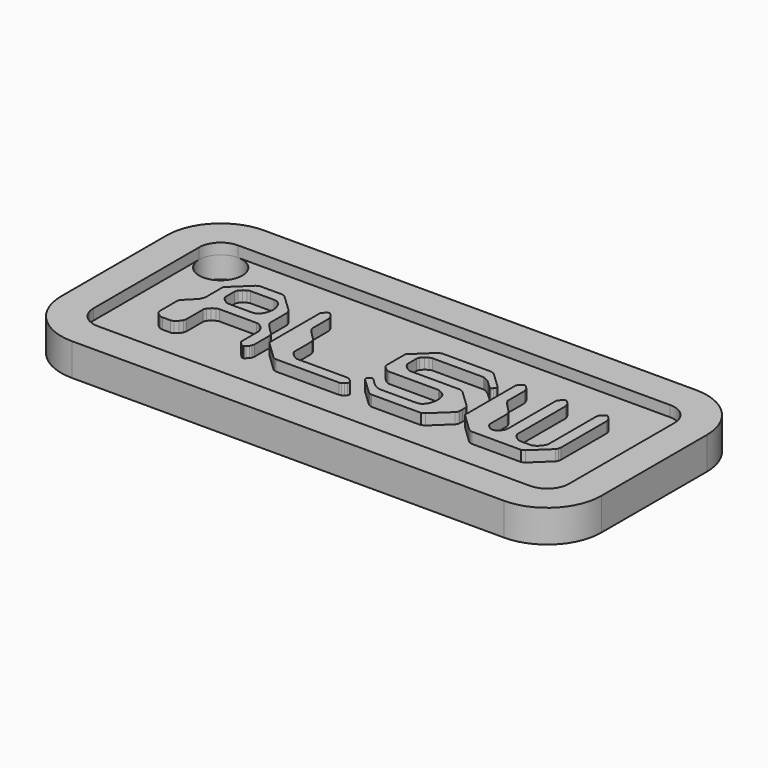
from build123d import *

# Parameters (mm, degrees)
EXTRUDE_DEPTH    = 1
EXTRUDE004_DEPTH = 2
SKETCH002_R      = 2
POCKET_DEPTH     = 5
EXTRUDE001_DEPTH = 1


with BuildPart() as extrude_body:
    # Scale → Extrude (new body)
    with BuildSketch(Plane(origin=(24.999965, 11.104911, 0), x_dir=(0, 1, 0), z_dir=(0, 0, 1))):
        with BuildLine():
            add(Edge.make_bspline(
                [(-2.359606, -9.379043), (3.473387, -9.379043)],
                knots=[0, 0, 82.19221, 82.19221], degree=1))
            add(Edge.make_bspline(
                [(3.473387, -9.379043), (3.488688, -9.379043), (3.519308, -9.391117), (3.565245, -9.415266)],
                knots=[0, 0, 0, 0, 1, 1, 1, 1], degree=3))
            add(Edge.make_bspline(
                [(3.565245, -9.415266), (3.618821, -9.439413), (3.653267, -9.459537), (3.668586, -9.475636)],
                knots=[0, 0, 0, 0, 1, 1, 1, 1], degree=3))
            add(Edge.make_bspline(
                [(3.668586, -9.475636), (3.706851, -9.515883), (3.764262, -9.572228), (3.84082, -9.644674)],
                knots=[0, 0, 0, 0, 1, 1, 1, 1], degree=3))
            add(Edge.make_bspline(
                [(3.84082, -9.644674), (3.917359, -9.725167), (3.955633, -9.769439), (3.955642, -9.777489)],
                knots=[0, 0, 0, 0, 1, 1, 1, 1], degree=3))
            add(Edge.make_bspline(
                [(3.955642, -9.777489), (3.955642, -9.934453)],
                knots=[0, 0, 2.10334, 2.10334], degree=1))
            add(Edge.make_bspline(
                [(3.955642, -9.934453), (3.955633, -9.950551), (3.917359, -9.994823), (3.84082, -10.067268)],
                knots=[0, 0, 0, 0, 1, 1, 1, 1], degree=3))
            add(Edge.make_bspline(
                [(3.84082, -10.067268), (3.764262, -10.139712), (3.706851, -10.196058), (3.668586, -10.236306)],
                knots=[0, 0, 0, 0, 1, 1, 1, 1], degree=3))
            add(Edge.make_bspline(
                [(3.668586, -10.236306), (3.653267, -10.252403), (3.622648, -10.268502), (3.576727, -10.284602)],
                knots=[0, 0, 0, 0, 1, 1, 1, 1], degree=3))
            add(Edge.make_bspline(
                [(3.576727, -10.284602), (3.538445, -10.308749), (3.496343, -10.328873), (3.450423, -10.344973)],
                knots=[0, 0, 0, 0, 1, 1, 1, 1], degree=3))
            add(Edge.make_bspline(
                [(3.450423, -10.344973), (3.404485, -10.36912), (3.362383, -10.385218), (3.324118, -10.39327)],
                knots=[0, 0, 0, 0, 1, 1, 1, 1], degree=3))
            add(Edge.make_bspline(
                [(3.324118, -10.39327), (3.285835, -10.409367), (3.255216, -10.417416), (3.232259, -10.417418)],
                knots=[0, 0, 0, 0, 1, 1, 1, 1], degree=3))
            add(Edge.make_bspline(
                [(3.232259, -10.417418), (1.303238, -10.417418)],
                knots=[0, 0, 27.181671, 27.181671], degree=1))
            add(Edge.make_bspline(
                [(1.303238, -10.417418), (1.287922, -10.417416), (1.26113, -10.425465), (1.222862, -10.441566)],
                knots=[0, 0, 0, 0, 1, 1, 1, 1], degree=3))
            add(Edge.make_bspline(
                [(1.222862, -10.441566), (1.192236, -10.465712), (1.153963, -10.489861), (1.108039, -10.51401)],
                knots=[0, 0, 0, 0, 1, 1, 1, 1], degree=3))
            add(Edge.make_bspline(
                [(1.108039, -10.51401), (1.069759, -10.538157), (1.031485, -10.562305), (0.993217, -10.586455)],
                knots=[0, 0, 0, 0, 1, 1, 1, 1], degree=3))
            add(Edge.make_bspline(
                [(0.993217, -10.586455), (0.954937, -10.610602), (0.928145, -10.630726), (0.912841, -10.646825)],
                knots=[0, 0, 0, 0, 1, 1, 1, 1], degree=3))
            add(Edge.make_bspline(
                [(0.912841, -10.646825), (0.882215, -10.679022), (0.824804, -10.735367), (0.740607, -10.815863)],
                knots=[0, 0, 0, 0, 1, 1, 1, 1], degree=3))
            add(Edge.make_bspline(
                [(0.740607, -10.815863), (0.656398, -10.896356), (0.568367, -10.980875), (0.476515, -11.06942)],
                knots=[0, 0, 0, 0, 1, 1, 1, 1], degree=3))
            add(Edge.make_bspline(
                [(0.476515, -11.06942), (0.384651, -11.157962), (0.29662, -11.24248), (0.212423, -11.322976)],
                knots=[0, 0, 0, 0, 1, 1, 1, 1], degree=3))
            add(Edge.make_bspline(
                [(0.212423, -11.322976), (0.135869, -11.411517), (0.082285, -11.471888), (0.051671, -11.504088)],
                knots=[0, 0, 0, 0, 1, 1, 1, 1], degree=3))
            add(Edge.make_bspline(
                [(0.051671, -11.504088), (0.005736, -11.536283), (-0.066984, -11.572506), (-0.166492, -11.612755)],
                knots=[0, 0, 0, 0, 1, 1, 1, 1], degree=3))
            add(Edge.make_bspline(
                [(-0.166492, -11.612755), (-0.258355, -11.661049), (-0.331077, -11.685198), (-0.384656, -11.6852)],
                knots=[0, 0, 0, 0, 1, 1, 1, 1], degree=3))
            add(Edge.make_bspline(
                [(-0.384656, -11.6852), (-2.313678, -11.6852)],
                knots=[0, 0, 27.18168, 27.18168], degree=1))
            add(Edge.make_bspline(
                [(-2.313678, -11.6852), (-2.382574, -11.685198), (-2.455294, -11.709346), (-2.53184, -11.757645)],
                knots=[0, 0, 0, 0, 1, 1, 1, 1], degree=3))
            add(Edge.make_bspline(
                [(-2.53184, -11.757645), (-2.608391, -11.805938), (-2.677285, -11.866309), (-2.738522, -11.938756)],
                knots=[0, 0, 0, 0, 1, 1, 1, 1], degree=3))
            add(Edge.make_bspline(
                [(-2.738522, -11.938756), (-2.799762, -12.011198), (-2.849519, -12.087667), (-2.887791, -12.168165)],
                knots=[0, 0, 0, 0, 1, 1, 1, 1], degree=3))
            add(Edge.make_bspline(
                [(-2.887791, -12.168165), (-2.926067, -12.248656), (-2.945204, -12.325125), (-2.945202, -12.397573)],
                knots=[0, 0, 0, 0, 1, 1, 1, 1], degree=3))
            add(Edge.make_bspline(
                [(-2.945202, -12.397573), (-2.945204, -12.494163), (-2.918412, -12.586731), (-2.864826, -12.675278)],
                knots=[0, 0, 0, 0, 1, 1, 1, 1], degree=3))
            add(Edge.make_bspline(
                [(-2.864826, -12.675278), (-2.80359, -12.771867), (-2.730868, -12.856386), (-2.646663, -12.928834)],
                knots=[0, 0, 0, 0, 1, 1, 1, 1], degree=3))
            add(Edge.make_bspline(
                [(-2.646663, -12.928834), (-2.562462, -13.001275), (-2.470604, -13.057621), (-2.371088, -13.097872)],
                knots=[0, 0, 0, 0, 1, 1, 1, 1], degree=3))
            add(Edge.make_bspline(
                [(-2.371088, -13.097872), (-2.263923, -13.138115), (-2.16441, -13.158238), (-2.07255, -13.158243)],
                knots=[0, 0, 0, 0, 1, 1, 1, 1], degree=3))
            add(Edge.make_bspline(
                [(-2.07255, -13.158243), (3.473387, -13.158243)],
                knots=[0, 0, 78.14732, 78.14732], degree=1))
            add(Edge.make_bspline(
                [(3.473387, -13.158243), (3.481033, -13.158238), (3.507825, -13.174337), (3.553763, -13.206539)],
                knots=[0, 0, 0, 0, 1, 1, 1, 1], degree=3))
            add(Edge.make_bspline(
                [(3.553763, -13.206539), (3.607338, -13.238733), (3.645612, -13.262881), (3.668586, -13.278983)],
                knots=[0, 0, 0, 0, 1, 1, 1, 1], degree=3))
            add(Edge.make_bspline(
                [(3.668586, -13.278983), (3.691542, -13.303128), (3.718333, -13.331301), (3.748961, -13.363502)],
                knots=[0, 0, 0, 0, 1, 1, 1, 1], degree=3))
            add(Edge.make_bspline(
                [(3.748961, -13.363502), (3.779572, -13.395696), (3.810192, -13.427894), (3.84082, -13.460096)],
                knots=[0, 0, 0, 0, 1, 1, 1, 1], degree=3))
            add(Edge.make_bspline(
                [(3.84082, -13.460096), (3.87143, -13.492289), (3.898222, -13.520462), (3.921196, -13.544614)],
                knots=[0, 0, 0, 0, 1, 1, 1, 1], degree=3))
            add(Edge.make_bspline(
                [(3.921196, -13.544614), (3.944151, -13.568758), (3.955633, -13.580833), (3.955642, -13.580837)],
                knots=[0, 0, 0, 0, 1, 1, 1, 1], degree=3))
            add(Edge.make_bspline(
                [(3.955642, -13.580837), (3.955642, -13.7378)],
                knots=[0, 0, 2.10334, 2.10334], degree=1))
            add(Edge.make_bspline(
                [(3.955642, -13.7378), (3.955633, -13.753894), (3.917359, -13.798167), (3.84082, -13.870615)],
                knots=[0, 0, 0, 0, 1, 1, 1, 1], degree=3))
            add(Edge.make_bspline(
                [(3.84082, -13.870615), (3.764262, -13.943055), (3.706851, -13.999402), (3.668586, -14.039653)],
                knots=[0, 0, 0, 0, 1, 1, 1, 1], degree=3))
            add(Edge.make_bspline(
                [(3.668586, -14.039653), (3.653267, -14.055747), (3.622648, -14.071846), (3.576727, -14.08795)],
                knots=[0, 0, 0, 0, 1, 1, 1, 1], degree=3))
            add(Edge.make_bspline(
                [(3.576727, -14.08795), (3.538445, -14.112093), (3.496343, -14.132217), (3.450423, -14.14832)],
                knots=[0, 0, 0, 0, 1, 1, 1, 1], degree=3))
            add(Edge.make_bspline(
                [(3.450423, -14.14832), (3.404485, -14.172464), (3.362383, -14.188562), (3.324118, -14.196617)],
                knots=[0, 0, 0, 0, 1, 1, 1, 1], degree=3))
            add(Edge.make_bspline(
                [(3.324118, -14.196617), (3.285835, -14.21271), (3.255216, -14.22076), (3.232259, -14.220765)],
                knots=[0, 0, 0, 0, 1, 1, 1, 1], degree=3))
            add(Edge.make_bspline(
                [(3.232259, -14.220765), (-2.313678, -14.220765)],
                knots=[0, 0, 78.147321, 78.147321], degree=1))
            add(Edge.make_bspline(
                [(-2.313678, -14.220765), (-2.390228, -14.22076), (-2.474431, -14.252957), (-2.566287, -14.317358)],
                knots=[0, 0, 0, 0, 1, 1, 1, 1], degree=3))
            add(Edge.make_bspline(
                [(-2.566287, -14.317358), (-2.658148, -14.381748), (-2.742351, -14.458218), (-2.818897, -14.546766)],
                knots=[0, 0, 0, 0, 1, 1, 1, 1], degree=3))
            add(Edge.make_bspline(
                [(-2.818897, -14.546766), (-2.895447, -14.643354), (-2.960513, -14.739947), (-3.014096, -14.836545)],
                knots=[0, 0, 0, 0, 1, 1, 1, 1], degree=3))
            add(Edge.make_bspline(
                [(-3.014096, -14.836545), (-3.060027, -14.941182), (-3.082991, -15.03375), (-3.08299, -15.11425)],
                knots=[0, 0, 0, 0, 1, 1, 1, 1], degree=3))
            add(Edge.make_bspline(
                [(-3.08299, -15.11425), (-3.08299, -16.019809)],
                knots=[0, 0, 12.13467, 12.13467], degree=1))
            add(Edge.make_bspline(
                [(-3.08299, -16.019809), (-3.082991, -16.132493), (-3.048545, -16.245185), (-2.979649, -16.357884)],
                knots=[0, 0, 0, 0, 1, 1, 1, 1], degree=3))
            add(Edge.make_bspline(
                [(-2.979649, -16.357884), (-2.910757, -16.470569), (-2.826554, -16.571186), (-2.727039, -16.659738)],
                knots=[0, 0, 0, 0, 1, 1, 1, 1], degree=3))
            add(Edge.make_bspline(
                [(-2.727039, -16.659738), (-2.627528, -16.748273), (-2.52036, -16.820718), (-2.405535, -16.877072)],
                knots=[0, 0, 0, 0, 1, 1, 1, 1], degree=3))
            add(Edge.make_bspline(
                [(-2.405535, -16.877072), (-2.283061, -16.933409), (-2.172065, -16.961582), (-2.07255, -16.96159)],
                knots=[0, 0, 0, 0, 1, 1, 1, 1], degree=3))
            add(Edge.make_bspline(
                [(-2.07255, -16.96159), (3.473387, -16.96159)],
                knots=[0, 0, 78.14732, 78.14732], degree=1))
            add(Edge.make_bspline(
                [(3.473387, -16.96159), (3.481033, -16.961582), (3.507825, -16.977681), (3.553763, -17.009887)],
                knots=[0, 0, 0, 0, 1, 1, 1, 1], degree=3))
            add(Edge.make_bspline(
                [(3.553763, -17.009887), (3.607338, -17.042076), (3.645612, -17.066225), (3.668586, -17.082331)],
                knots=[0, 0, 0, 0, 1, 1, 1, 1], degree=3))
            add(Edge.make_bspline(
                [(3.668586, -17.082331), (3.691542, -17.106472), (3.718333, -17.134644), (3.748961, -17.16685)],
                knots=[0, 0, 0, 0, 1, 1, 1, 1], degree=3))
            add(Edge.make_bspline(
                [(3.748961, -17.16685), (3.779572, -17.19904), (3.810192, -17.231238), (3.84082, -17.263443)],
                knots=[0, 0, 0, 0, 1, 1, 1, 1], degree=3))
            add(Edge.make_bspline(
                [(3.84082, -17.263443), (3.87143, -17.295632), (3.898222, -17.323806), (3.921196, -17.347962)],
                knots=[0, 0, 0, 0, 1, 1, 1, 1], degree=3))
            add(Edge.make_bspline(
                [(3.921196, -17.347962), (3.944151, -17.372102), (3.955633, -17.388201), (3.955642, -17.396258)],
                knots=[0, 0, 0, 0, 1, 1, 1, 1], degree=3))
            add(Edge.make_bspline(
                [(3.955642, -17.396258), (3.955642, -17.541148)],
                knots=[0, 0, 1.94155, 1.94155], degree=1))
            add(Edge.make_bspline(
                [(3.955642, -17.541148), (3.955633, -17.557238), (3.917359, -17.60151), (3.84082, -17.673963)],
                knots=[0, 0, 0, 0, 1, 1, 1, 1], degree=3))
            add(Edge.make_bspline(
                [(3.84082, -17.673963), (3.764262, -17.746399), (3.706851, -17.802745), (3.668586, -17.843001)],
                knots=[0, 0, 0, 0, 1, 1, 1, 1], degree=3))
            add(Edge.make_bspline(
                [(3.668586, -17.843001), (3.614993, -17.883239), (3.542272, -17.919462), (3.450423, -17.951668)],
                knots=[0, 0, 0, 0, 1, 1, 1, 1], degree=3))
            add(Edge.make_bspline(
                [(3.450423, -17.951668), (3.366211, -17.983857), (3.29349, -17.999956), (3.232259, -17.999965)],
                knots=[0, 0, 0, 0, 1, 1, 1, 1], degree=3))
            add(Edge.make_bspline(
                [(3.232259, -17.999965), (-2.02662, -17.999965)],
                knots=[0, 0, 74.102421, 74.102421], degree=1))
            add(Edge.make_bspline(
                [(-2.02662, -17.999965), (-2.072553, -17.999956), (-2.149101, -17.983857), (-2.256266, -17.951668)],
                knots=[0, 0, 0, 0, 1, 1, 1, 1], degree=3))
            add(Edge.make_bspline(
                [(-2.256266, -17.951668), (-2.355781, -17.919462), (-2.424675, -17.883239), (-2.462947, -17.843001)],
                knots=[0, 0, 0, 0, 1, 1, 1, 1], degree=3))
            add(Edge.make_bspline(
                [(-2.462947, -17.843001), (-3.955642, -16.273365)],
                knots=[0, 0, 29.745776, 29.745776], degree=1))
            add(Edge.make_bspline(
                [(-3.955642, -16.273365), (-4.104911, -15.971512)],
                knots=[0, 0, 4.559076, 4.559076], degree=1))
            add(Edge.make_bspline(
                [(-4.104911, -15.971512), (-4.104911, -11.407495)],
                knots=[0, 0, 61.15877, 61.15877], degree=1))
            add(Edge.make_bspline(
                [(-4.104911, -11.407495), (-4.104912, -11.375296), (-4.085775, -11.3109), (-4.0475, -11.214309)],
                knots=[0, 0, 0, 0, 1, 1, 1, 1], degree=3))
            add(Edge.make_bspline(
                [(-4.0475, -11.214309), (-4.001572, -11.117714), (-3.970953, -11.061368), (-3.955642, -11.045272)],
                knots=[0, 0, 0, 0, 1, 1, 1, 1], degree=3))
            add(Edge.make_bspline(
                [(-3.955642, -11.045272), (-2.359606, -9.379043)],
                knots=[0, 0, 31.690894, 31.690894], degree=1))
        make_face()
        with BuildLine():
            add(Edge.make_bspline(
                [(-2.417018, -0.232238), (-2.40171, -0.232238), (-2.382574, -0.232238), (-2.359606, -0.232238)],
                knots=[0, 0, 0, 0, 1, 1, 1, 1], degree=3))
            add(Edge.make_bspline(
                [(-2.359606, -0.232238), (-2.336644, -0.240287), (-2.321335, -0.244312), (-2.313678, -0.244313)],
                knots=[0, 0, 0, 0, 1, 1, 1, 1], degree=3))
            add(Edge.make_bspline(
                [(-2.313678, -0.244313), (-2.275405, -0.268461), (-2.225649, -0.312733), (-2.164408, -0.377128)],
                knots=[0, 0, 0, 0, 1, 1, 1, 1], degree=3))
            add(Edge.make_bspline(
                [(-2.164408, -0.377128), (-2.103172, -0.441522), (-2.072553, -0.481769), (-2.07255, -0.497869)],
                knots=[0, 0, 0, 0, 1, 1, 1, 1], degree=3))
            add(Edge.make_bspline(
                [(-2.07255, -0.497869), (-2.07255, -0.654832)],
                knots=[0, 0, 2.10334, 2.10334], degree=1))
            add(Edge.make_bspline(
                [(-2.07255, -0.654832), (-2.248614, -0.839968), (-2.428503, -1.025104), (-2.612216, -1.210243)],
                knots=[0, 0, 0, 0, 1, 1, 1, 1], degree=3))
            add(Edge.make_bspline(
                [(-2.612216, -1.210243), (-2.795934, -1.403426), (-2.937549, -1.624786), (-3.03706, -1.874319)],
                knots=[0, 0, 0, 0, 1, 1, 1, 1], degree=3))
            add(Edge.make_bspline(
                [(-3.03706, -1.874319), (-3.08299, -2.019209)],
                knots=[0, 0, 2.046576, 2.046576], degree=1))
            add(Edge.make_bspline(
                [(-3.08299, -2.019209), (-3.08299, -5.472406)],
                knots=[0, 0, 46.27356, 46.27356], degree=1))
            add(Edge.make_bspline(
                [(-3.08299, -5.472406), (-3.082991, -5.633389), (-3.040889, -5.770229), (-2.956684, -5.882927)],
                knots=[0, 0, 0, 0, 1, 1, 1, 1], degree=3))
            add(Edge.make_bspline(
                [(-2.956684, -5.882927), (-2.864828, -6.003662), (-2.753833, -6.100254), (-2.623699, -6.172705)],
                knots=[0, 0, 0, 0, 1, 1, 1, 1], degree=3))
            add(Edge.make_bspline(
                [(-2.623699, -6.172705), (-2.493569, -6.245144), (-2.355781, -6.297465), (-2.210336, -6.329669)],
                knots=[0, 0, 0, 0, 1, 1, 1, 1], degree=3))
            add(Edge.make_bspline(
                [(-2.210336, -6.329669), (-2.064897, -6.36991), (-1.930938, -6.390033), (-1.808457, -6.390039)],
                knots=[0, 0, 0, 0, 1, 1, 1, 1], degree=3))
            add(Edge.make_bspline(
                [(-1.808457, -6.390039), (-1.58647, -6.390033), (-1.372135, -6.353811), (-1.16545, -6.281372)],
                knots=[0, 0, 0, 0, 1, 1, 1, 1], degree=3))
            add(Edge.make_bspline(
                [(-1.16545, -6.281372), (-0.958773, -6.208921), (-0.794194, -6.060007), (-0.671712, -5.83463)],
                knots=[0, 0, 0, 0, 1, 1, 1, 1], degree=3))
            add(Edge.make_bspline(
                [(-0.671712, -5.83463), (-0.648752, -5.786328), (-0.618133, -5.713883), (-0.579855, -5.617296)],
                knots=[0, 0, 0, 0, 1, 1, 1, 1], degree=3))
            add(Edge.make_bspline(
                [(-0.579855, -5.617296), (-0.53393, -5.528746), (-0.510966, -5.48045), (-0.510961, -5.472406)],
                knots=[0, 0, 0, 0, 1, 1, 1, 1], degree=3))
            add(Edge.make_bspline(
                [(-0.510961, -5.472406), (-0.510961, -0.860093)],
                knots=[0, 0, 61.80595, 61.80595], degree=1))
            add(Edge.make_bspline(
                [(-0.510961, -0.860093), (-0.510966, -0.811795), (-0.488, -0.743375), (-0.442067, -0.654832)],
                knots=[0, 0, 0, 0, 1, 1, 1, 1], degree=3))
            add(Edge.make_bspline(
                [(-0.442067, -0.654832), (-0.388488, -0.566288), (-0.327249, -0.481769), (-0.258351, -0.401276)],
                knots=[0, 0, 0, 0, 1, 1, 1, 1], degree=3))
            add(Edge.make_bspline(
                [(-0.258351, -0.401276), (-0.189462, -0.320782), (-0.120569, -0.248337), (-0.05167, -0.183942)],
                knots=[0, 0, 0, 0, 1, 1, 1, 1], degree=3))
            add(Edge.make_bspline(
                [(-0.05167, -0.183942), (0.024873, -0.127596), (0.089939, -0.099423), (0.143529, -0.099423)],
                knots=[0, 0, 0, 0, 1, 1, 1, 1], degree=3))
            add(Edge.make_bspline(
                [(0.143529, -0.099423), (2.359607, -0.099423)],
                knots=[0, 0, 31.226569, 31.226569], degree=1))
            add(Edge.make_bspline(
                [(2.359607, -0.099423), (3.955642, -1.765652)],
                knots=[0, 0, 31.690901, 31.690901], degree=1))
            add(Edge.make_bspline(
                [(3.955642, -1.765652), (4.104912, -2.079579)],
                knots=[0, 0, 4.703213, 4.703213], degree=1))
            add(Edge.make_bspline(
                [(4.104912, -2.079579), (4.104912, -6.643596)],
                knots=[0, 0, 61.15877, 61.15877], degree=1))
            add(Edge.make_bspline(
                [(4.104912, -6.643596), (4.104903, -6.675787), (4.081938, -6.740182), (4.036018, -6.836782)],
                knots=[0, 0, 0, 0, 1, 1, 1, 1], degree=3))
            add(Edge.make_bspline(
                [(4.036018, -6.836782), (3.997735, -6.933367), (3.970943, -6.985689), (3.955642, -6.993746)],
                knots=[0, 0, 0, 0, 1, 1, 1, 1], degree=3))
            add(Edge.make_bspline(
                [(3.955642, -6.993746), (2.508876, -8.515084)],
                knots=[0, 0, 28.830515, 28.830515], degree=1))
            add(Edge.make_bspline(
                [(2.508876, -8.515084), (2.508869, -8.523125), (2.497387, -8.52715), (2.474429, -8.527159)],
                knots=[0, 0, 0, 0, 1, 1, 1, 1], degree=3))
            add(Edge.make_bspline(
                [(2.474429, -8.527159), (2.451458, -8.5352), (2.43232, -8.539224), (2.417018, -8.539233)],
                knots=[0, 0, 0, 0, 1, 1, 1, 1], degree=3))
            add(Edge.make_bspline(
                [(2.417018, -8.539233), (2.401701, -8.539224), (2.382564, -8.535196), (2.359607, -8.527159)],
                knots=[0, 0, 0, 0, 1, 1, 1, 1], degree=3))
            add(Edge.make_bspline(
                [(2.359607, -8.527159), (2.336635, -8.52715), (2.321325, -8.523129), (2.313678, -8.515084)],
                knots=[0, 0, 0, 0, 1, 1, 1, 1], degree=3))
            add(Edge.make_bspline(
                [(2.313678, -8.515084), (2.275396, -8.498977), (2.22564, -8.454705), (2.164408, -8.382269)],
                knots=[0, 0, 0, 0, 1, 1, 1, 1], degree=3))
            add(Edge.make_bspline(
                [(2.164408, -8.382269), (2.103162, -8.317866), (2.072543, -8.277618), (2.07255, -8.261528)],
                knots=[0, 0, 0, 0, 1, 1, 1, 1], degree=3))
            add(Edge.make_bspline(
                [(2.07255, -8.261528), (2.07255, -8.116639)],
                knots=[0, 0, 1.94155, 1.94155], degree=1))
            add(Edge.make_bspline(
                [(2.07255, -8.116639), (2.248604, -7.931494), (2.428493, -7.742333), (2.612217, -7.549155)],
                knots=[0, 0, 0, 0, 1, 1, 1, 1], degree=3))
            add(Edge.make_bspline(
                [(2.612217, -7.549155), (2.795925, -7.364011), (2.93754, -7.146677), (3.037061, -6.897152)],
                knots=[0, 0, 0, 0, 1, 1, 1, 1], degree=3))
            add(Edge.make_bspline(
                [(3.037061, -6.897152), (3.044708, -6.881047), (3.052362, -6.852874), (3.060025, -6.812633)],
                knots=[0, 0, 0, 0, 1, 1, 1, 1], degree=3))
            add(Edge.make_bspline(
                [(3.060025, -6.812633), (3.075327, -6.77238), (3.082982, -6.748231), (3.08299, -6.740189)],
                knots=[0, 0, 0, 0, 1, 1, 1, 1], degree=3))
            add(Edge.make_bspline(
                [(3.08299, -6.740189), (3.08299, -2.019209)],
                knots=[0, 0, 63.26211, 63.26211], degree=1))
            add(Edge.make_bspline(
                [(3.08299, -2.019209), (3.082982, -1.938712), (3.05619, -1.850169), (3.002614, -1.753578)],
                knots=[0, 0, 0, 0, 1, 1, 1, 1], degree=3))
            add(Edge.make_bspline(
                [(3.002614, -1.753578), (2.956677, -1.656983), (2.895438, -1.564415), (2.818898, -1.475873)],
                knots=[0, 0, 0, 0, 1, 1, 1, 1], degree=3))
            add(Edge.make_bspline(
                [(2.818898, -1.475873), (2.749996, -1.387328), (2.669621, -1.310858), (2.57777, -1.246464)],
                knots=[0, 0, 0, 0, 1, 1, 1, 1], degree=3))
            add(Edge.make_bspline(
                [(2.57777, -1.246464), (2.485904, -1.190118), (2.397874, -1.161944), (2.313678, -1.161946)],
                knots=[0, 0, 0, 0, 1, 1, 1, 1], degree=3))
            add(Edge.make_bspline(
                [(2.313678, -1.161946), (1.303238, -1.161946)],
                knots=[0, 0, 14.238016, 14.238016], degree=1))
            add(Edge.make_bspline(
                [(1.303238, -1.161946), (1.234338, -1.161944), (1.153963, -1.194142), (1.062111, -1.258539)],
                knots=[0, 0, 0, 0, 1, 1, 1, 1], degree=3))
            add(Edge.make_bspline(
                [(1.062111, -1.258539), (0.970246, -1.322933), (0.882215, -1.399402), (0.798018, -1.487947)],
                knots=[0, 0, 0, 0, 1, 1, 1, 1], degree=3))
            add(Edge.make_bspline(
                [(0.798018, -1.487947), (0.721464, -1.576488), (0.65257, -1.669057), (0.591337, -1.765652)],
                knots=[0, 0, 0, 0, 1, 1, 1, 1], degree=3))
            add(Edge.make_bspline(
                [(0.591337, -1.765652), (0.537748, -1.870292), (0.510956, -1.954811), (0.510961, -2.019209)],
                knots=[0, 0, 0, 0, 1, 1, 1, 1], degree=3))
            add(Edge.make_bspline(
                [(0.510961, -2.019209), (0.510961, -6.643596)],
                knots=[0, 0, 61.96774, 61.96774], degree=1))
            add(Edge.make_bspline(
                [(0.510961, -6.643596), (0.510956, -6.667737), (0.487992, -6.724083), (0.442068, -6.812633)],
                knots=[0, 0, 0, 0, 1, 1, 1, 1], degree=3))
            add(Edge.make_bspline(
                [(0.442068, -6.812633), (0.396133, -6.909219), (0.361686, -6.96959), (0.338727, -6.993746)],
                knots=[0, 0, 0, 0, 1, 1, 1, 1], degree=3))
            add(Edge.make_bspline(
                [(0.338727, -6.993746), (-1.153968, -8.563381)],
                knots=[0, 0, 29.745776, 29.745776], degree=1))
            add(Edge.make_bspline(
                [(-1.153968, -8.563381), (-1.238175, -8.651916), (-1.345343, -8.700212), (-1.475471, -8.708271)],
                knots=[0, 0, 0, 0, 1, 1, 1, 1], degree=3))
            add(Edge.make_bspline(
                [(-1.475471, -8.708271), (-1.597952, -8.716311), (-1.708947, -8.720336), (-1.808457, -8.720345)],
                knots=[0, 0, 0, 0, 1, 1, 1, 1], degree=3))
            add(Edge.make_bspline(
                [(-1.808457, -8.720345), (-1.907974, -8.720336), (-2.022796, -8.716315), (-2.152926, -8.708271)],
                knots=[0, 0, 0, 0, 1, 1, 1, 1], degree=3))
            add(Edge.make_bspline(
                [(-2.152926, -8.708271), (-2.275405, -8.700212), (-2.378746, -8.651916), (-2.462947, -8.563381)],
                knots=[0, 0, 0, 0, 1, 1, 1, 1], degree=3))
            add(Edge.make_bspline(
                [(-2.462947, -8.563381), (-3.955642, -6.993746)],
                knots=[0, 0, 29.745776, 29.745776], degree=1))
            add(Edge.make_bspline(
                [(-3.955642, -6.993746), (-4.104911, -6.691893)],
                knots=[0, 0, 4.559076, 4.559076], degree=1))
            add(Edge.make_bspline(
                [(-4.104911, -6.691893), (-4.104911, -2.127876)],
                knots=[0, 0, 61.15877, 61.15877], degree=1))
            add(Edge.make_bspline(
                [(-4.104911, -2.127876), (-4.104912, -2.095675), (-4.085775, -2.03128), (-4.0475, -1.93469)],
                knots=[0, 0, 0, 0, 1, 1, 1, 1], degree=3))
            add(Edge.make_bspline(
                [(-4.0475, -1.93469), (-4.001572, -1.838094), (-3.970953, -1.781749), (-3.955642, -1.765652)],
                knots=[0, 0, 0, 0, 1, 1, 1, 1], degree=3))
            add(Edge.make_bspline(
                [(-3.955642, -1.765652), (-2.508876, -0.244313)],
                knots=[0, 0, 28.830525, 28.830525], degree=1))
            add(Edge.make_bspline(
                [(-2.508876, -0.244313), (-2.508878, -0.244312), (-2.497396, -0.24029), (-2.474429, -0.232238)],
                knots=[0, 0, 0, 0, 1, 1, 1, 1], degree=3))
            add(Edge.make_bspline(
                [(-2.474429, -0.232238), (-2.451467, -0.232238), (-2.43233, -0.232238), (-2.417018, -0.232238)],
                knots=[0, 0, 0, 0, 1, 1, 1, 1], degree=3))
        make_face()
        with BuildLine():
            add(Edge.make_bspline(
                [(-2.359606, 8.732135), (3.473387, 8.732135)],
                knots=[0, 0, 82.19221, 82.19221], degree=1))
            add(Edge.make_bspline(
                [(3.473387, 8.732135), (3.488688, 8.732135), (3.519308, 8.720061), (3.565245, 8.695913)],
                knots=[0, 0, 0, 0, 1, 1, 1, 1], degree=3))
            add(Edge.make_bspline(
                [(3.565245, 8.695913), (3.611166, 8.671765), (3.645612, 8.651641), (3.668586, 8.635542)],
                knots=[0, 0, 0, 0, 1, 1, 1, 1], degree=3))
            add(Edge.make_bspline(
                [(3.668586, 8.635542), (3.706851, 8.595296), (3.764262, 8.53895), (3.84082, 8.466504)],
                knots=[0, 0, 0, 0, 1, 1, 1, 1], degree=3))
            add(Edge.make_bspline(
                [(3.84082, 8.466504), (3.917359, 8.386011), (3.955633, 8.341739), (3.955642, 8.333689)],
                knots=[0, 0, 0, 0, 1, 1, 1, 1], degree=3))
            add(Edge.make_bspline(
                [(3.955642, 8.333689), (3.955642, 8.176725)],
                knots=[0, 0, 2.10335, 2.10335], degree=1))
            add(Edge.make_bspline(
                [(3.955642, 8.176725), (3.955633, 8.160628), (3.917359, 8.116356), (3.84082, 8.04391)],
                knots=[0, 0, 0, 0, 1, 1, 1, 1], degree=3))
            add(Edge.make_bspline(
                [(3.84082, 8.04391), (3.764262, 7.971466), (3.706851, 7.91512), (3.668586, 7.874872)],
                knots=[0, 0, 0, 0, 1, 1, 1, 1], degree=3))
            add(Edge.make_bspline(
                [(3.668586, 7.874872), (3.630303, 7.842676), (3.557582, 7.806453), (3.450423, 7.766205)],
                knots=[0, 0, 0, 0, 1, 1, 1, 1], degree=3))
            add(Edge.make_bspline(
                [(3.450423, 7.766205), (3.343246, 7.71791), (3.270525, 7.693762), (3.232259, 7.69376)],
                knots=[0, 0, 0, 0, 1, 1, 1, 1], degree=3))
            add(Edge.make_bspline(
                [(3.232259, 7.69376), (1.303238, 7.69376)],
                knots=[0, 0, 27.181671, 27.181671], degree=1))
            add(Edge.make_bspline(
                [(1.303238, 7.69376), (1.287922, 7.693762), (1.26113, 7.685713), (1.222862, 7.669612)],
                knots=[0, 0, 0, 0, 1, 1, 1, 1], degree=3))
            add(Edge.make_bspline(
                [(1.222862, 7.669612), (1.192236, 7.645465), (1.153963, 7.621317), (1.108039, 7.597168)],
                knots=[0, 0, 0, 0, 1, 1, 1, 1], degree=3))
            add(Edge.make_bspline(
                [(1.108039, 7.597168), (1.069759, 7.573021), (1.031485, 7.548873), (0.993217, 7.524723)],
                knots=[0, 0, 0, 0, 1, 1, 1, 1], degree=3))
            add(Edge.make_bspline(
                [(0.993217, 7.524723), (0.954937, 7.500576), (0.928145, 7.480453), (0.912841, 7.464353)],
                knots=[0, 0, 0, 0, 1, 1, 1, 1], degree=3))
            add(Edge.make_bspline(
                [(0.912841, 7.464353), (0.882215, 7.432156), (0.824804, 7.375811), (0.740607, 7.295315)],
                knots=[0, 0, 0, 0, 1, 1, 1, 1], degree=3))
            add(Edge.make_bspline(
                [(0.740607, 7.295315), (0.656398, 7.214822), (0.568367, 7.130304), (0.476515, 7.041758)],
                knots=[0, 0, 0, 0, 1, 1, 1, 1], degree=3))
            add(Edge.make_bspline(
                [(0.476515, 7.041758), (0.384651, 6.953216), (0.29662, 6.868698), (0.212423, 6.788202)],
                knots=[0, 0, 0, 0, 1, 1, 1, 1], degree=3))
            add(Edge.make_bspline(
                [(0.212423, 6.788202), (0.135869, 6.699661), (0.082285, 6.63929), (0.051671, 6.60709)],
                knots=[0, 0, 0, 0, 1, 1, 1, 1], degree=3))
            add(Edge.make_bspline(
                [(0.051671, 6.60709), (0.005736, 6.574895), (-0.066984, 6.538672), (-0.166492, 6.498423)],
                knots=[0, 0, 0, 0, 1, 1, 1, 1], degree=3))
            add(Edge.make_bspline(
                [(-0.166492, 6.498423), (-0.266011, 6.450129), (-0.338731, 6.42598), (-0.384656, 6.425978)],
                knots=[0, 0, 0, 0, 1, 1, 1, 1], degree=3))
            add(Edge.make_bspline(
                [(-0.384656, 6.425978), (-2.313678, 6.425978)],
                knots=[0, 0, 27.18168, 27.18168], degree=1))
            add(Edge.make_bspline(
                [(-2.313678, 6.425978), (-2.382574, 6.42598), (-2.462949, 6.393783), (-2.554805, 6.329385)],
                knots=[0, 0, 0, 0, 1, 1, 1, 1], degree=3))
            add(Edge.make_bspline(
                [(-2.554805, 6.329385), (-2.646665, 6.256944), (-2.734696, 6.172425), (-2.818897, 6.075828)],
                knots=[0, 0, 0, 0, 1, 1, 1, 1], degree=3))
            add(Edge.make_bspline(
                [(-2.818897, 6.075828), (-2.903103, 5.979239), (-2.975823, 5.882646), (-3.03706, 5.78605)],
                knots=[0, 0, 0, 0, 1, 1, 1, 1], degree=3))
            add(Edge.make_bspline(
                [(-3.03706, 5.78605), (-3.090646, 5.68946), (-3.117438, 5.608966), (-3.117436, 5.544567)],
                knots=[0, 0, 0, 0, 1, 1, 1, 1], degree=3))
            add(Edge.make_bspline(
                [(-3.117436, 5.544567), (-3.117436, 0.92018)],
                knots=[0, 0, 61.96774, 61.96774], degree=1))
            add(Edge.make_bspline(
                [(-3.117436, 0.92018), (-3.117438, 0.871891), (-3.136575, 0.815546), (-3.174847, 0.751142)],
                knots=[0, 0, 0, 0, 1, 1, 1, 1], degree=3))
            add(Edge.make_bspline(
                [(-3.174847, 0.751142), (-3.205468, 0.678705), (-3.24757, 0.610285), (-3.301152, 0.545882)],
                knots=[0, 0, 0, 0, 1, 1, 1, 1], degree=3))
            add(Edge.make_bspline(
                [(-3.301152, 0.545882), (-3.347083, 0.473446), (-3.400667, 0.4171), (-3.461904, 0.376844)],
                knots=[0, 0, 0, 0, 1, 1, 1, 1], degree=3))
            add(Edge.make_bspline(
                [(-3.461904, 0.376844), (-3.51549, 0.328556), (-3.569074, 0.304408), (-3.622656, 0.3044)],
                knots=[0, 0, 0, 0, 1, 1, 1, 1], degree=3))
            add(Edge.make_bspline(
                [(-3.622656, 0.3044), (-3.668586, 0.304408), (-3.72217, 0.324532), (-3.783408, 0.36477)],
                knots=[0, 0, 0, 0, 1, 1, 1, 1], degree=3))
            add(Edge.make_bspline(
                [(-3.783408, 0.36477), (-3.836993, 0.405026), (-3.886749, 0.457347), (-3.932678, 0.521734)],
                knots=[0, 0, 0, 0, 1, 1, 1, 1], degree=3))
            add(Edge.make_bspline(
                [(-3.932678, 0.521734), (-3.978607, 0.578088), (-4.020709, 0.638459), (-4.058982, 0.702845)],
                knots=[0, 0, 0, 0, 1, 1, 1, 1], degree=3))
            add(Edge.make_bspline(
                [(-4.058982, 0.702845), (-4.089603, 0.767249), (-4.104912, 0.823595), (-4.104911, 0.871883)],
                knots=[0, 0, 0, 0, 1, 1, 1, 1], degree=3))
            add(Edge.make_bspline(
                [(-4.104911, 0.871883), (-4.104911, 6.703683)],
                knots=[0, 0, 78.14732, 78.14732], degree=1))
            add(Edge.make_bspline(
                [(-4.104911, 6.703683), (-4.104912, 6.735883), (-4.085775, 6.800278), (-4.0475, 6.896869)],
                knots=[0, 0, 0, 0, 1, 1, 1, 1], degree=3))
            add(Edge.make_bspline(
                [(-4.0475, 6.896869), (-4.001572, 6.993464), (-3.970953, 7.04981), (-3.955642, 7.065906)],
                knots=[0, 0, 0, 0, 1, 1, 1, 1], degree=3))
            add(Edge.make_bspline(
                [(-3.955642, 7.065906), (-2.359606, 8.732135)],
                knots=[0, 0, 31.690894, 31.690894], degree=1))
        make_face()
        with BuildLine():
            add(Edge.make_bspline(
                [(-1.349167, 17.999965), (-1.153968, 17.903371)],
                knots=[0, 0, 3.03987, 3.03987], degree=1))
            add(Edge.make_bspline(
                [(-1.153968, 17.903371), (-1.123352, 17.871175), (-1.069768, 17.814829), (-0.993216, 17.734335)],
                knots=[0, 0, 0, 0, 1, 1, 1, 1], degree=3))
            add(Edge.make_bspline(
                [(-0.993216, 17.734335), (-0.909017, 17.645791), (-0.820986, 17.557248), (-0.729124, 17.468704)],
                knots=[0, 0, 0, 0, 1, 1, 1, 1], degree=3))
            add(Edge.make_bspline(
                [(-0.729124, 17.468704), (-0.63727, 17.380161), (-0.549239, 17.295642), (-0.465032, 17.215147)],
                knots=[0, 0, 0, 0, 1, 1, 1, 1], degree=3))
            add(Edge.make_bspline(
                [(-0.465032, 17.215147), (-0.380833, 17.126605), (-0.323422, 17.066234), (-0.292797, 17.034036)],
                knots=[0, 0, 0, 0, 1, 1, 1, 1], degree=3))
            add(Edge.make_bspline(
                [(-0.292797, 17.034036), (-0.223909, 16.969641), (-0.120569, 16.909271), (0.017224, 16.852923)],
                knots=[0, 0, 0, 0, 1, 1, 1, 1], degree=3))
            add(Edge.make_bspline(
                [(0.017224, 16.852923), (0.155005, 16.78853), (0.262174, 16.756332), (0.338727, 16.75633)],
                knots=[0, 0, 0, 0, 1, 1, 1, 1], degree=3))
            add(Edge.make_bspline(
                [(0.338727, 16.75633), (2.336642, 16.75633)],
                knots=[0, 0, 28.152447, 28.152447], degree=1))
            add(Edge.make_bspline(
                [(2.336642, 16.75633), (3.955642, 15.065954)],
                knots=[0, 0, 32.148518, 32.148518], degree=1))
            add(Edge.make_bspline(
                [(3.955642, 15.065954), (3.970943, 15.049859), (3.997735, 14.993512), (4.036018, 14.896916)],
                knots=[0, 0, 0, 0, 1, 1, 1, 1], degree=3))
            add(Edge.make_bspline(
                [(4.036018, 14.896916), (4.081938, 14.800327), (4.104903, 14.735931), (4.104912, 14.70373)],
                knots=[0, 0, 0, 0, 1, 1, 1, 1], degree=3))
            add(Edge.make_bspline(
                [(4.104912, 14.70373), (4.104912, 12.723575)],
                knots=[0, 0, 26.53449, 26.53449], degree=1))
            add(Edge.make_bspline(
                [(4.104912, 12.723575), (4.001571, 12.421721)],
                knots=[0, 0, 4.299026, 4.299026], degree=1))
            add(Edge.make_bspline(
                [(4.001571, 12.421721), (2.462947, 10.803789)],
                knots=[0, 0, 30.661028, 30.661028], degree=1))
            add(Edge.make_bspline(
                [(2.462947, 10.803789), (2.44763, 10.787699), (2.417011, 10.7716), (2.371089, 10.755493)],
                knots=[0, 0, 0, 0, 1, 1, 1, 1], degree=3))
            add(Edge.make_bspline(
                [(2.371089, 10.755493), (2.332808, 10.731352), (2.290706, 10.711229), (2.244784, 10.695122)],
                knots=[0, 0, 0, 0, 1, 1, 1, 1], degree=3))
            add(Edge.make_bspline(
                [(2.244784, 10.695122), (2.198848, 10.670982), (2.152919, 10.654883), (2.106997, 10.646826)],
                knots=[0, 0, 0, 0, 1, 1, 1, 1], degree=3))
            add(Edge.make_bspline(
                [(2.106997, 10.646826), (2.068716, 10.630735), (2.041923, 10.622685), (2.026621, 10.622678)],
                knots=[0, 0, 0, 0, 1, 1, 1, 1], degree=3))
            add(Edge.make_bspline(
                [(2.026621, 10.622678), (0.0976, 10.622678)],
                knots=[0, 0, 27.18167, 27.18167], degree=1))
            add(Edge.make_bspline(
                [(0.0976, 10.622678), (0.082285, 10.622685), (0.055493, 10.614636), (0.017224, 10.59853)],
                knots=[0, 0, 0, 0, 1, 1, 1, 1], degree=3))
            add(Edge.make_bspline(
                [(0.017224, 10.59853), (-0.013401, 10.574389), (-0.051675, 10.550241), (-0.097599, 10.526085)],
                knots=[0, 0, 0, 0, 1, 1, 1, 1], degree=3))
            add(Edge.make_bspline(
                [(-0.097599, 10.526085), (-0.135878, 10.501944), (-0.174152, 10.477796), (-0.212421, 10.45364)],
                knots=[0, 0, 0, 0, 1, 1, 1, 1], degree=3))
            add(Edge.make_bspline(
                [(-0.212421, 10.45364), (-0.250701, 10.4295), (-0.277492, 10.409376), (-0.292797, 10.39327)],
                knots=[0, 0, 0, 0, 1, 1, 1, 1], degree=3))
            add(Edge.make_bspline(
                [(-0.292797, 10.39327), (-0.323422, 10.36108), (-0.380833, 10.304734), (-0.465032, 10.224232)],
                knots=[0, 0, 0, 0, 1, 1, 1, 1], degree=3))
            add(Edge.make_bspline(
                [(-0.465032, 10.224232), (-0.549239, 10.143746), (-0.63727, 10.059227), (-0.729124, 9.970675)],
                knots=[0, 0, 0, 0, 1, 1, 1, 1], degree=3))
            add(Edge.make_bspline(
                [(-0.729124, 9.970675), (-0.820986, 9.88214), (-0.909017, 9.797621), (-0.993216, 9.717119)],
                knots=[0, 0, 0, 0, 1, 1, 1, 1], degree=3))
            add(Edge.make_bspline(
                [(-0.993216, 9.717119), (-1.069768, 9.628584), (-1.123352, 9.568214), (-1.153968, 9.536007)],
                knots=[0, 0, 0, 0, 1, 1, 1, 1], degree=3))
            add(Edge.make_bspline(
                [(-1.153968, 9.536007), (-1.21521, 9.495768), (-1.287931, 9.459547), (-1.372131, 9.42734)],
                knots=[0, 0, 0, 0, 1, 1, 1, 1], degree=3))
            add(Edge.make_bspline(
                [(-1.372131, 9.42734), (-1.448683, 9.395151), (-1.521404, 9.379052), (-1.590294, 9.379043)],
                knots=[0, 0, 0, 0, 1, 1, 1, 1], degree=3))
            add(Edge.make_bspline(
                [(-1.590294, 9.379043), (-3.232259, 9.379043)],
                knots=[0, 0, 23.13678, 23.13678], degree=1))
            add(Edge.make_bspline(
                [(-3.232259, 9.379043), (-3.293499, 9.379052), (-3.370048, 9.395151), (-3.461904, 9.42734)],
                knots=[0, 0, 0, 0, 1, 1, 1, 1], degree=3))
            add(Edge.make_bspline(
                [(-3.461904, 9.42734), (-3.546109, 9.459547), (-3.615003, 9.495768), (-3.668585, 9.536007)],
                knots=[0, 0, 0, 0, 1, 1, 1, 1], degree=3))
            add(Edge.make_bspline(
                [(-3.668585, 9.536007), (-3.70686, 9.576263), (-3.764272, 9.632609), (-3.840819, 9.705044)],
                knots=[0, 0, 0, 0, 1, 1, 1, 1], degree=3))
            add(Edge.make_bspline(
                [(-3.840819, 9.705044), (-3.917368, 9.777498), (-3.955643, 9.821769), (-3.955642, 9.83786)],
                knots=[0, 0, 0, 0, 1, 1, 1, 1], degree=3))
            add(Edge.make_bspline(
                [(-3.955642, 9.83786), (-3.955642, 9.98275)],
                knots=[0, 0, 1.94155, 1.94155], degree=1))
            add(Edge.make_bspline(
                [(-3.955642, 9.98275), (-3.955643, 9.990807), (-3.944161, 10.006906), (-3.921195, 10.031046)],
                knots=[0, 0, 0, 0, 1, 1, 1, 1], degree=3))
            add(Edge.make_bspline(
                [(-3.921195, 10.031046), (-3.898231, 10.055202), (-3.871439, 10.083375), (-3.840819, 10.115565)],
                knots=[0, 0, 0, 0, 1, 1, 1, 1], degree=3))
            add(Edge.make_bspline(
                [(-3.840819, 10.115565), (-3.810201, 10.14777), (-3.779582, 10.179968), (-3.748961, 10.212157)],
                knots=[0, 0, 0, 0, 1, 1, 1, 1], degree=3))
            add(Edge.make_bspline(
                [(-3.748961, 10.212157), (-3.718343, 10.244364), (-3.691551, 10.272536), (-3.668585, 10.296676)],
                knots=[0, 0, 0, 0, 1, 1, 1, 1], degree=3))
            add(Edge.make_bspline(
                [(-3.668585, 10.296676), (-3.645622, 10.312783), (-3.611175, 10.336932), (-3.565244, 10.369121)],
                knots=[0, 0, 0, 0, 1, 1, 1, 1], degree=3))
            add(Edge.make_bspline(
                [(-3.565244, 10.369121), (-3.511662, 10.401327), (-3.481043, 10.417426), (-3.473387, 10.417418)],
                knots=[0, 0, 0, 0, 1, 1, 1, 1], degree=3))
            add(Edge.make_bspline(
                [(-3.473387, 10.417418), (-1.544365, 10.417418)],
                knots=[0, 0, 27.18168, 27.18168], degree=1))
            add(Edge.make_bspline(
                [(-1.544365, 10.417418), (-1.444855, 10.417426), (-1.337688, 10.445599), (-1.222862, 10.501937)],
                knots=[0, 0, 0, 0, 1, 1, 1, 1], degree=3))
            add(Edge.make_bspline(
                [(-1.222862, 10.501937), (-1.100388, 10.55829), (-0.989393, 10.630735), (-0.889876, 10.719271)],
                knots=[0, 0, 0, 0, 1, 1, 1, 1], degree=3))
            add(Edge.make_bspline(
                [(-0.889876, 10.719271), (-0.790367, 10.807821), (-0.706164, 10.908439), (-0.637266, 11.021123)],
                knots=[0, 0, 0, 0, 1, 1, 1, 1], degree=3))
            add(Edge.make_bspline(
                [(-0.637266, 11.021123), (-0.568376, 11.133822), (-0.53393, 11.246515), (-0.533925, 11.359199)],
                knots=[0, 0, 0, 0, 1, 1, 1, 1], degree=3))
            add(Edge.make_bspline(
                [(-0.533925, 11.359199), (-0.533925, 14.812397)],
                knots=[0, 0, 46.27357, 46.27357], degree=1))
            add(Edge.make_bspline(
                [(-0.533925, 14.812397), (-0.53393, 14.884845), (-0.560722, 14.973389), (-0.614301, 15.078028)],
                knots=[0, 0, 0, 0, 1, 1, 1, 1], degree=3))
            add(Edge.make_bspline(
                [(-0.614301, 15.078028), (-0.660235, 15.182674), (-0.721474, 15.279266), (-0.798017, 15.367807)],
                knots=[0, 0, 0, 0, 1, 1, 1, 1], degree=3))
            add(Edge.make_bspline(
                [(-0.798017, 15.367807), (-0.87457, 15.456353), (-0.958773, 15.532823), (-1.050627, 15.597215)],
                knots=[0, 0, 0, 0, 1, 1, 1, 1], degree=3))
            add(Edge.make_bspline(
                [(-1.050627, 15.597215), (-1.142489, 15.661613), (-1.226693, 15.693811), (-1.303237, 15.693808)],
                knots=[0, 0, 0, 0, 1, 1, 1, 1], degree=3))
            add(Edge.make_bspline(
                [(-1.303237, 15.693808), (-3.232259, 15.693808)],
                knots=[0, 0, 27.18168, 27.18168], degree=1))
            add(Edge.make_bspline(
                [(-3.232259, 15.693808), (-3.316463, 15.693811), (-3.408322, 15.717959), (-3.507834, 15.766253)],
                knots=[0, 0, 0, 0, 1, 1, 1, 1], degree=3))
            add(Edge.make_bspline(
                [(-3.507834, 15.766253), (-3.607347, 15.814551), (-3.703033, 15.878947), (-3.79489, 15.959439)],
                knots=[0, 0, 0, 0, 1, 1, 1, 1], degree=3))
            add(Edge.make_bspline(
                [(-3.79489, 15.959439), (-3.879095, 16.031885), (-3.951815, 16.116404), (-4.013053, 16.212995)],
                knots=[0, 0, 0, 0, 1, 1, 1, 1], degree=3))
            add(Edge.make_bspline(
                [(-4.013053, 16.212995), (-4.074293, 16.301541), (-4.104912, 16.390084), (-4.104911, 16.478625)],
                knots=[0, 0, 0, 0, 1, 1, 1, 1], degree=3))
            add(Edge.make_bspline(
                [(-4.104911, 16.478625), (-4.104911, 17.239295)],
                knots=[0, 0, 10.19313, 10.19313], degree=1))
            add(Edge.make_bspline(
                [(-4.104911, 17.239295), (-4.104912, 17.311741), (-4.085775, 17.392235), (-4.0475, 17.480778)],
                knots=[0, 0, 0, 0, 1, 1, 1, 1], degree=3))
            add(Edge.make_bspline(
                [(-4.0475, 17.480778), (-4.001572, 17.561272), (-3.947988, 17.641767), (-3.886748, 17.72226)],
                knots=[0, 0, 0, 0, 1, 1, 1, 1], degree=3))
            add(Edge.make_bspline(
                [(-3.886748, 17.72226), (-3.825511, 17.802754), (-3.756617, 17.871175), (-3.680067, 17.92752)],
                knots=[0, 0, 0, 0, 1, 1, 1, 1], degree=3))
            add(Edge.make_bspline(
                [(-3.680067, 17.92752), (-3.60352, 17.975817), (-3.534627, 17.999965), (-3.473387, 17.999965)],
                knots=[0, 0, 0, 0, 1, 1, 1, 1], degree=3))
            add(Edge.make_bspline(
                [(-3.473387, 17.999965), (-1.349167, 17.999965)],
                knots=[0, 0, 29.9322, 29.9322], degree=1))
        make_face()
        with BuildLine():
            add(Edge.make_bspline(
                [(1.808458, 11.709349), (1.930929, 11.709355), (2.064888, 11.729479), (2.210337, 11.769719)],
                knots=[0, 0, 0, 0, 1, 1, 1, 1], degree=3))
            add(Edge.make_bspline(
                [(2.210337, 11.769719), (2.355772, 11.801923), (2.493559, 11.854244), (2.623699, 11.926683)],
                knots=[0, 0, 0, 0, 1, 1, 1, 1], degree=3))
            add(Edge.make_bspline(
                [(2.623699, 11.926683), (2.753824, 11.999134), (2.860991, 12.095726), (2.945203, 12.216462)],
                knots=[0, 0, 0, 0, 1, 1, 1, 1], degree=3))
            add(Edge.make_bspline(
                [(2.945203, 12.216462), (3.037053, 12.329159), (3.082982, 12.465999), (3.08299, 12.626982)],
                knots=[0, 0, 0, 0, 1, 1, 1, 1], degree=3))
            add(Edge.make_bspline(
                [(3.08299, 12.626982), (3.08299, 14.812397)],
                knots=[0, 0, 29.28502, 29.28502], degree=1))
            add(Edge.make_bspline(
                [(3.08299, 14.812397), (3.082982, 14.892895), (3.05619, 14.981438), (3.002614, 15.078028)],
                knots=[0, 0, 0, 0, 1, 1, 1, 1], degree=3))
            add(Edge.make_bspline(
                [(3.002614, 15.078028), (2.956677, 15.174624), (2.895438, 15.267192), (2.818898, 15.355733)],
                knots=[0, 0, 0, 0, 1, 1, 1, 1], degree=3))
            add(Edge.make_bspline(
                [(2.818898, 15.355733), (2.749996, 15.444279), (2.669621, 15.520748), (2.57777, 15.585141)],
                knots=[0, 0, 0, 0, 1, 1, 1, 1], degree=3))
            add(Edge.make_bspline(
                [(2.57777, 15.585141), (2.485904, 15.64149), (2.397874, 15.669662), (2.313678, 15.669659)],
                knots=[0, 0, 0, 0, 1, 1, 1, 1], degree=3))
            add(Edge.make_bspline(
                [(2.313678, 15.669659), (1.303238, 15.669659)],
                knots=[0, 0, 14.238016, 14.238016], degree=1))
            add(Edge.make_bspline(
                [(1.303238, 15.669659), (1.219029, 15.669662), (1.130997, 15.64149), (1.039145, 15.585141)],
                knots=[0, 0, 0, 0, 1, 1, 1, 1], degree=3))
            add(Edge.make_bspline(
                [(1.039145, 15.585141), (0.954937, 15.520748), (0.874561, 15.444279), (0.798018, 15.355733)],
                knots=[0, 0, 0, 0, 1, 1, 1, 1], degree=3))
            add(Edge.make_bspline(
                [(0.798018, 15.355733), (0.721464, 15.267192), (0.656398, 15.174624), (0.60282, 15.078028)],
                knots=[0, 0, 0, 0, 1, 1, 1, 1], degree=3))
            add(Edge.make_bspline(
                [(0.60282, 15.078028), (0.556885, 14.981438), (0.533921, 14.892895), (0.533926, 14.812397)],
                knots=[0, 0, 0, 0, 1, 1, 1, 1], degree=3))
            add(Edge.make_bspline(
                [(0.533926, 14.812397), (0.533926, 12.626982)],
                knots=[0, 0, 29.28502, 29.28502], degree=1))
            add(Edge.make_bspline(
                [(0.533926, 12.626982), (0.533921, 12.465999), (0.576022, 12.329159), (0.660231, 12.216462)],
                knots=[0, 0, 0, 0, 1, 1, 1, 1], degree=3))
            add(Edge.make_bspline(
                [(0.660231, 12.216462), (0.752083, 12.095726), (0.863079, 11.999134), (0.993217, 11.926683)],
                knots=[0, 0, 0, 0, 1, 1, 1, 1], degree=3))
            add(Edge.make_bspline(
                [(0.993217, 11.926683), (1.123343, 11.854244), (1.26113, 11.801923), (1.406579, 11.769719)],
                knots=[0, 0, 0, 0, 1, 1, 1, 1], degree=3))
            add(Edge.make_bspline(
                [(1.406579, 11.769719), (1.552014, 11.729479), (1.685974, 11.709355), (1.808458, 11.709349)],
                knots=[0, 0, 0, 0, 1, 1, 1, 1], degree=3))
        make_face(mode=Mode.SUBTRACT)
    extrude(amount=EXTRUDE_DEPTH)


with BuildPart() as pocket:
    # Sketch001 → Extrude004 (new body)
    with BuildSketch(Plane.XY):
        with BuildLine():
            Line((5, 22.21), (45, 22.21))
            ThreePointArc((50, 17.21), (48.535534, 20.745534), (45, 22.21))
            Line((50, 17.21), (50, 5))
            ThreePointArc((45, 0), (48.535534, 1.464466), (50, 5))
            Line((45, 0), (5, 0))
            ThreePointArc((0, 5), (1.464466, 1.464466), (5, 0))
            Line((0, 5), (0, 17.21))
            ThreePointArc((5, 22.21), (1.464466, 20.745534), (0, 17.21))
        make_face()
    extrude(amount=-EXTRUDE004_DEPTH)

    # Sketch002 → Pocket (cut)
    with BuildSketch(Plane.XY):
        with Locations((5, 17.21)):
            Circle(SKETCH002_R)
    extrude(amount=-POCKET_DEPTH, mode=Mode.SUBTRACT)


with BuildPart() as fusion:
    # Sketch → Extrude001 (new body)
    with BuildSketch(Plane.XY):
        with BuildLine():
            Line((5, 22.21), (45, 22.21))
            ThreePointArc((50, 17.21), (48.535534, 20.745534), (45, 22.21))
            Line((50, 17.21), (50, 5))
            ThreePointArc((45, 0), (48.535534, 1.464466), (50, 5))
            Line((45, 0), (5, 0))
            ThreePointArc((0, 5), (1.464466, 1.464466), (5, 0))
            Line((0, 5), (0, 17.21))
            ThreePointArc((5, 22.21), (1.464466, 20.745534), (0, 17.21))
        make_face()
        with BuildLine():
            Line((5, 19.21), (45, 19.21))
            ThreePointArc((47, 17.21), (46.414214, 18.624214), (45, 19.21))
            Line((47, 17.21), (47, 5))
            ThreePointArc((45, 3), (46.414214, 3.585786), (47, 5))
            Line((45, 3), (5, 3))
            ThreePointArc((3, 5), (3.585786, 3.585786), (5, 3))
            Line((3, 5), (3, 17.21))
            ThreePointArc((5, 19.21), (3.585786, 18.624214), (3, 17.21))
        make_face(mode=Mode.SUBTRACT)
    extrude(amount=EXTRUDE001_DEPTH)

    # Fusion: union Extrude body, Pocket
    add(extrude_body.part)
    add(pocket.part)


solid = fusion.part
